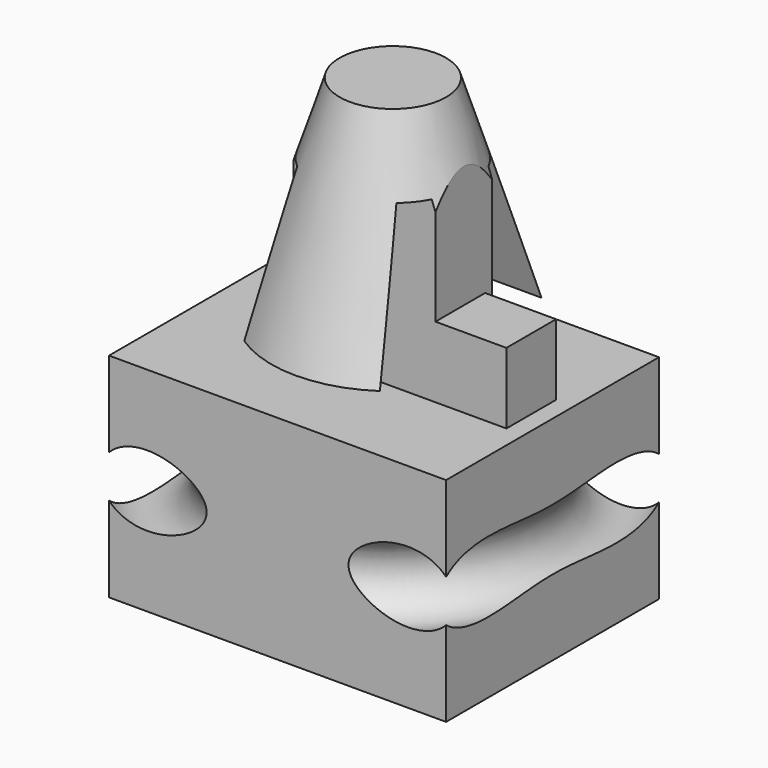
from build123d import *

# Parameters (mm, degrees)
BOX008_W               = 10
BOX008_H               = 10
BOX008_DEPTH           = 5
BOX009_W               = 10
BOX009_H               = 10
BOX009_DEPTH           = 5
BOX006_W               = 10
BOX006_H               = 10
BOX006_DEPTH           = 15
BOX006_PLACEMENT_ANGLE = 90
BOX005_W               = 10
BOX005_H               = 10
BOX005_DEPTH           = 15
BOX002_W               = 20
BOX002_H               = 8
BOX002_DEPTH           = 18
BOX002_ROLL_ANGLE      = 16.999951
BOX003_W               = 20
BOX003_H               = 5
BOX003_DEPTH           = 10
CUT001_PLACEMENT_ANGLE = 180
BOX001_W               = 20
BOX001_H               = 8
BOX001_DEPTH           = 18
BOX001_ROLL_ANGLE      = 16.999951
BOX_W                  = 20
BOX_H                  = 5
BOX_DEPTH              = 10
TORUS_R                = 2
BOX007_W               = 19
BOX007_H               = 15
BOX007_DEPTH           = 12
BOX004_W               = 11
BOX004_H               = 3.5
BOX004_DEPTH           = 4


with BuildPart() as box008:
    # Box008 → Box008 (new body)
    with BuildSketch(Plane(origin=(-5, 5, -3), x_dir=(1, 0, 0), z_dir=(0, 0, 1))):
        with Locations((5, 5)):
            Rectangle(BOX008_W, BOX008_H)
    extrude(amount=BOX008_DEPTH)


with BuildPart() as box009:
    # Box009 → Box009 (new body)
    with BuildSketch(Plane(origin=(5, -4, -3), x_dir=(-1, 0, 0), z_dir=(0, 0, 1))):
        with Locations((5, 5)):
            Rectangle(BOX009_W, BOX009_H)
    extrude(amount=BOX009_DEPTH)


with BuildPart() as box006:
    # Box006 → Box006 (new body)
    with BuildSketch(Plane.XY):
        with Locations((5, 5)):
            Rectangle(BOX006_W, BOX006_H)
    extrude(amount=BOX006_DEPTH)


with BuildPart() as box006_1:
    # Box006 placement: moved
    add(box006.part.moved(Location((-4, -4, 0))).rotate(Axis((-4, -4, 0), (0, 0, 1)), BOX006_PLACEMENT_ANGLE))


with BuildPart() as box005:
    # Box005 → Box005 (new body)
    with BuildSketch(Plane(origin=(4, -4, 0), x_dir=(1, 0, 0), z_dir=(0, 0, 1))):
        with Locations((5, 5)):
            Rectangle(BOX005_W, BOX005_H)
    extrude(amount=BOX005_DEPTH)


with BuildPart() as box002:
    # Box002 → Box002 (new body)
    with BuildSketch(Plane.XY):
        with Locations((10, 4)):
            Rectangle(BOX002_W, BOX002_H)
    extrude(amount=BOX002_DEPTH)


with BuildPart() as box002_1:
    # Box002 roll: moved
    add(box002.part.rotate(Axis((0, 0, 0), (1, 0, 0)), BOX002_ROLL_ANGLE))


with BuildPart() as box002_2:
    # Box002 placement: moved
    add(box002_1.part.moved(Location((0, 17.17, -2.83))))


with BuildPart() as cu_a001:
    # Box003 → Box003 (new body)
    with BuildSketch(Plane(origin=(0, 12, 0), x_dir=(1, 0, 0), z_dir=(0, 0, 1))):
        with Locations((10, 2.5)):
            Rectangle(BOX003_W, BOX003_H)
    extrude(amount=BOX003_DEPTH)

    # Cut001: cut Box002
    add(box002_2.part, mode=Mode.SUBTRACT)


with BuildPart() as cu_a001_1:
    # Cut001 placement: moved
    add(cu_a001.part.moved(Location((10, 10, 0))).rotate(Axis((10, 10, 0), (0, 0, 1)), CUT001_PLACEMENT_ANGLE))


with BuildPart() as box001:
    # Box001 → Box001 (new body)
    with BuildSketch(Plane.XY):
        with Locations((10, 4)):
            Rectangle(BOX001_W, BOX001_H)
    extrude(amount=BOX001_DEPTH)


with BuildPart() as box001_1:
    # Box001 roll: moved
    add(box001.part.rotate(Axis((0, 0, 0), (1, 0, 0)), BOX001_ROLL_ANGLE))


with BuildPart() as box001_2:
    # Box001 placement: moved
    add(box001_1.part.moved(Location((0, 17.17, -2.83))))


with BuildPart() as cu_a:
    # Box → Box (new body)
    with BuildSketch(Plane(origin=(0, 12, 0), x_dir=(1, 0, 0), z_dir=(0, 0, 1))):
        with Locations((10, 2.5)):
            Rectangle(BOX_W, BOX_H)
    extrude(amount=BOX_DEPTH)

    # Cut: cut Box001
    add(box001_2.part, mode=Mode.SUBTRACT)


with BuildPart() as cu_a_1:
    # Cut placement: moved
    add(cu_a.part.moved(Location((-10, -10, 0))))


with BuildPart() as cut007:
    # Cone → Cone (revolve)
    with BuildSketch(Plane.XZ):
        Polygon((0, 0), (7.5, 0), (3, 14), (0, 14), align=None)
    revolve(axis=Axis((0, 0, 0), (0, 0, 1)))

    add(cu_a_1.part, mode=Mode.SUBTRACT)

    add(cu_a001_1.part, mode=Mode.SUBTRACT)

    # Cut004: cut Box005
    add(box005.part, mode=Mode.SUBTRACT)

    # Cut005: cut Box006
    add(box006_1.part, mode=Mode.SUBTRACT)

    # Cut006: cut Box009
    add(box009.part, mode=Mode.SUBTRACT)

    # Cut007: cut Box008
    add(box008.part, mode=Mode.SUBTRACT)


with BuildPart() as torus:
    # Torus → Torus (revolve)
    with BuildSketch(Plane(origin=(-0.5, 0, -6), x_dir=(1, 0, 0), z_dir=(0, -1, 0))):
        with Locations((10.5, 0)):
            Circle(TORUS_R)
    revolve(axis=Axis((-0.5, 0, -6), (0, 0, 1)))


with BuildPart() as cut008:
    # Box007 → Box007 (new body)
    with BuildSketch(Plane(origin=(-10, -7.5, -12), x_dir=(1, 0, 0), z_dir=(0, 0, 1))):
        with Locations((9.5, 7.5)):
            Rectangle(BOX007_W, BOX007_H)
    extrude(amount=BOX007_DEPTH)

    # Cut008: cut Torus
    add(torus.part, mode=Mode.SUBTRACT)


with BuildPart() as fusion:
    # Box004 → Box004 (new body)
    with BuildSketch(Plane(origin=(-3, -2, 0), x_dir=(1, 0, 0), z_dir=(0, 0, 1))):
        with Locations((5.5, 1.75)):
            Rectangle(BOX004_W, BOX004_H)
    extrude(amount=BOX004_DEPTH)

    # Fusion: union Cut007, Cut008
    add(cut007.part)
    add(cut008.part)


solid = fusion.part
